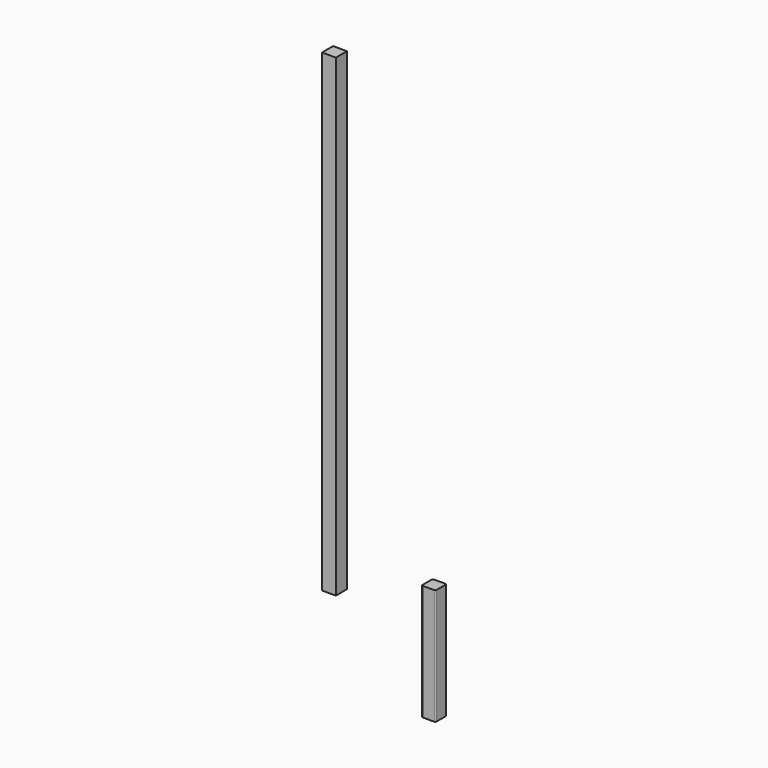
from build123d import *

# Parameters (mm, degrees)
F0_W     = 3.15
F0_H     = 3.15
F1_DEPTH = 26.3
F2_R     = 0.25
F3_DEPTH = 107.5


with BuildPart() as f1:
    # F0 (on Top) → F1 (new body)
    with BuildSketch(Plane.XY):
        Rectangle(F0_W, F0_H)
    extrude(amount=F1_DEPTH)

    # F2
    f2_edges = [f1.edges().sort_by_distance(p)[0] for p in [
        (-1.575, -1.575, 13.15),
        (1.575, -1.575, 13.15),
        (1.575, 1.575, 13.15),
        (-1.575, 1.575, 13.15),
    ]]
    fillet(f2_edges, radius=F2_R)


with BuildPart() as f3:
    # F0 (on Top) → F3 (new body)
    with BuildSketch(Plane.XY):
        with Locations((-44.120011, 26.895686)):
            Rectangle(F0_W, F0_H)
    extrude(amount=F3_DEPTH)


solid = Compound([f1.part, f3.part])
